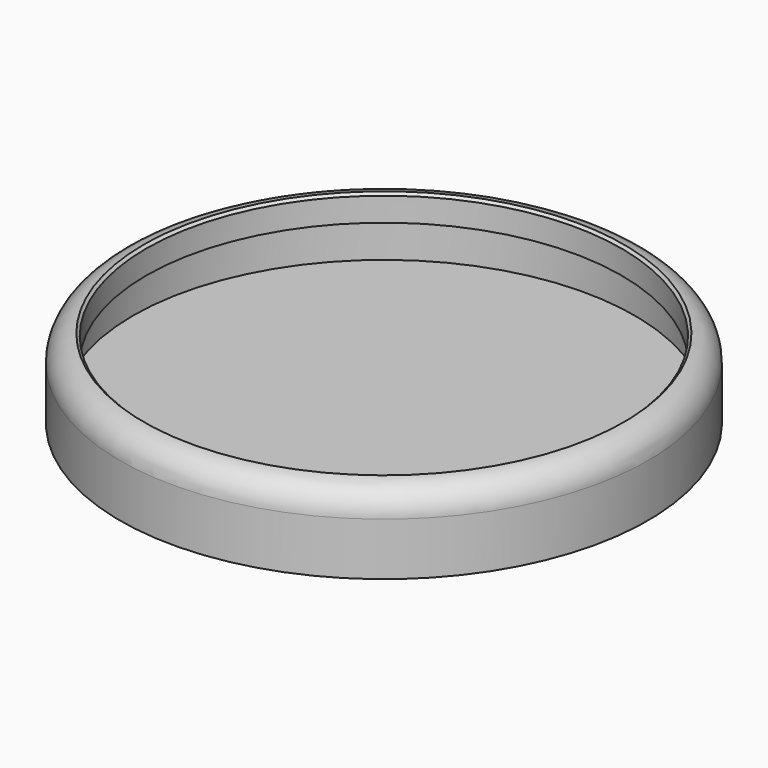
from build123d import *

# Parameters (mm, degrees)
FILLET_R     = 10
SKETCH001_R  = 90
POCKET_DEPTH = 25
CHAMFER_SIZE = 1


with BuildPart() as part:
    # Sketch → Revolution (revolve)
    with BuildSketch(Plane.XZ):
        Polygon((0, 0), (-100, 0), (-100, 30), (0, 30), (0, 20), (-95, 20), (-95, 5), (0, 5), align=None)
    revolve(axis=Axis((0, 0, 0), (0, 0, 1)))

    # Fillet
    fillet_edges = [part.edges().sort_by_distance(p)[0] for p in [
        (100, 0, 30),
    ]]
    fillet(fillet_edges, radius=FILLET_R)

    # Sketch001 → Pocket (cut)
    with BuildSketch(Plane(origin=(0, 0, 30), x_dir=(-1, 0, 0), z_dir=(0, 0, 1))):
        Circle(SKETCH001_R)
    extrude(amount=-POCKET_DEPTH, mode=Mode.SUBTRACT)

    # Chamfer
    chamfer_edges = [part.edges().sort_by_distance(p)[0] for p in [
        (90, 0, 30),
    ]]
    chamfer(chamfer_edges, length=CHAMFER_SIZE)


solid = part.part
